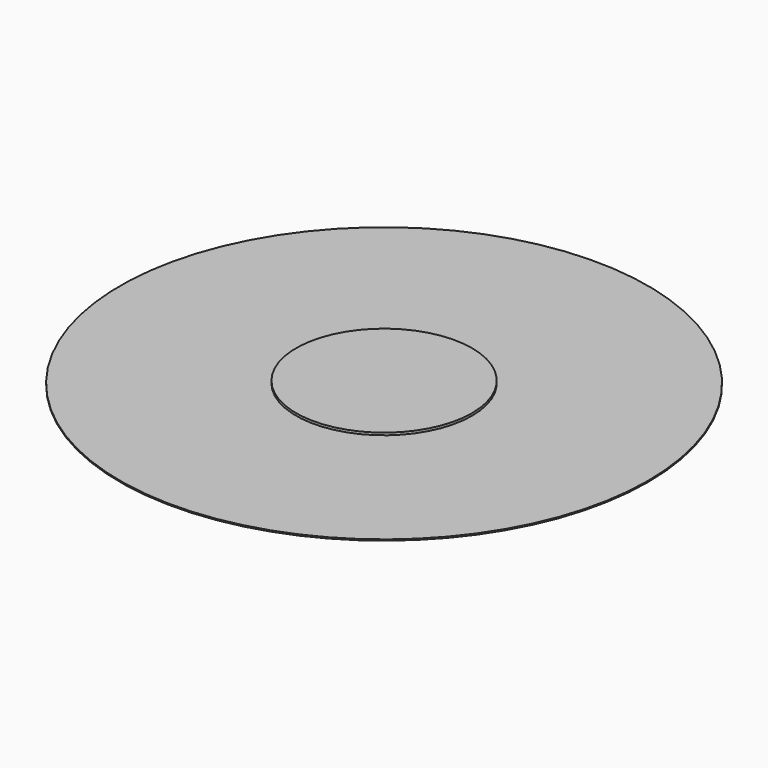
from build123d import *

# Parameters (mm, degrees)
CYLINDER001_R     = 2.25
CYLINDER001_DEPTH = 0.01
CYLINDER_R        = 0.75
CYLINDER_DEPTH    = 0.03


with BuildPart() as cylinder001:
    # Cylinder001 → Cylinder001 (new body)
    with BuildSketch(Plane.XY):
        Circle(CYLINDER001_R)
    extrude(amount=CYLINDER001_DEPTH)


with BuildPart() as fid150x450round:
    # Cylinder → Cylinder (new body)
    with BuildSketch(Plane.XY):
        Circle(CYLINDER_R)
    extrude(amount=CYLINDER_DEPTH)

    # Fusion: union Cylinder001
    add(cylinder001.part)


solid = fid150x450round.part
